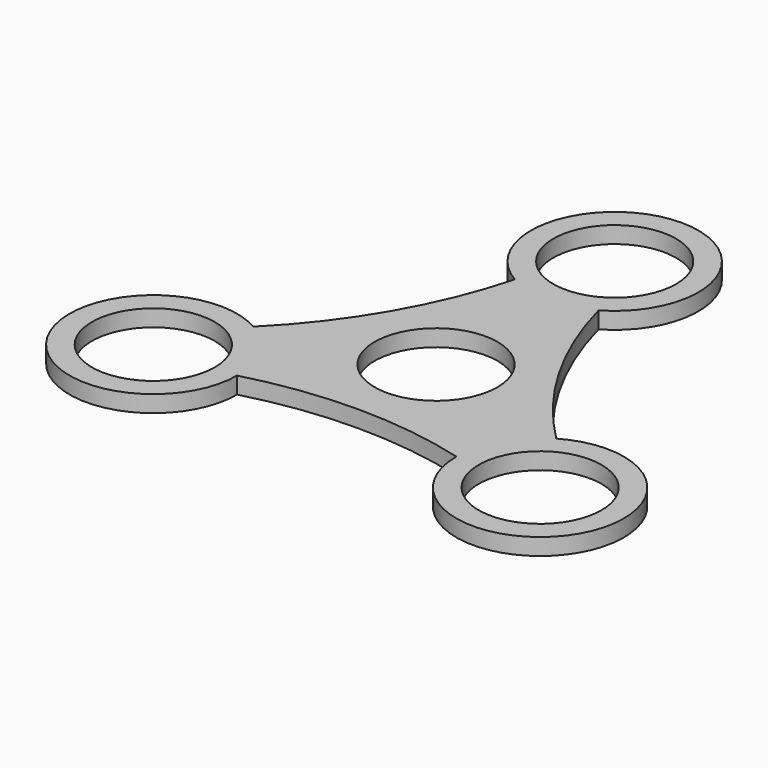
from build123d import *

# Parameters (mm, degrees)
F0_R     = 11
F1_DEPTH = 3


with BuildPart() as f1:
    # F0 (on Top) → F1 (new body)
    with BuildSketch(Plane.XY):
        with BuildLine():
            ThreePointArc((27.141016, -7.009619), (15.053712, 8.691264), (7.5, 27.009619))
            ThreePointArc((7.5, 27.009619), (0, 55), (-7.5, 27.009619))
            ThreePointArc((-7.5, 27.009619), (-15.053712, 8.691264), (-27.141016, -7.009619))
            ThreePointArc((-27.141016, -7.009619), (-47.631397, -27.5), (-19.641016, -20))
            ThreePointArc((-19.641016, -20), (0, -17.382529), (19.641016, -20))
            ThreePointArc((19.641016, -20), (47.631397, -27.5), (27.141016, -7.009619))
        make_face()
        with Locations((-34.641016, -20)):
            Circle(F0_R, mode=Mode.SUBTRACT)
        Circle(F0_R, mode=Mode.SUBTRACT)
        with Locations((34.641016, -20)):
            Circle(F0_R, mode=Mode.SUBTRACT)
        with Locations((0, 40)):
            Circle(F0_R, mode=Mode.SUBTRACT)
    extrude(amount=F1_DEPTH)


solid = f1.part
